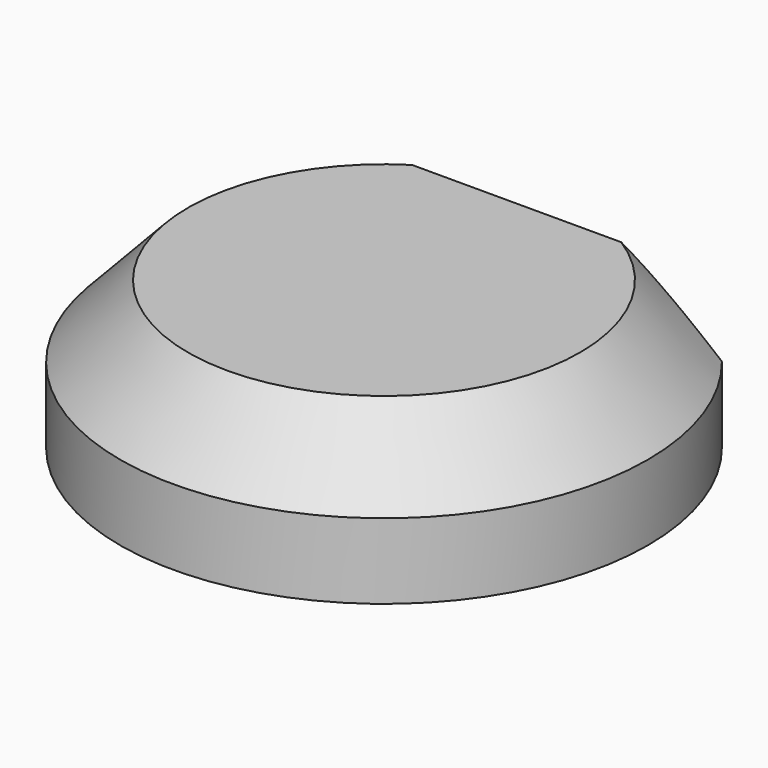
from build123d import *

# Parameters (mm, degrees)
F1_DEPTH = 2
F5_DEPTH = 19.589616
F7_DEPTH = 1.2


with BuildPart() as f1:
    # F0 (on Top) → F1 (new body)
    with BuildSketch(Plane.XY):
        with BuildLine():
            Line((27.229394, 21.99), (-27.229394, 21.99))
            ThreePointArc((-27.229394, 21.99), (0, -35), (27.229394, 21.99))
        make_face()
    extrude(amount=F1_DEPTH)

    # F2 (on Front) → F3 (revolve)
    with BuildSketch(Plane.XZ):
        Polygon((-35, 0), (-33.560254, 0), (-33.560254, 10), (-25.686589, 18.388616), (0, 18.388616), (0, 19.588616), (-26, 19.588616), (-35, 10), align=None)
    revolve(axis=Axis((0, 0, 12.407482), (0, 0, -1)))

    # F4 (on face) → F5 (cut, through all)
    with BuildSketch(Plane(origin=(0, 0, 0), x_dir=(1, 0, 0), z_dir=(0, 0, -1))):
        Polygon((27.229394, -21.99), (-25.352131, -21.99), (-27.229394, -21.99), (-27.229394, -37.239455), (27.229394, -37.239455), align=None)
    extrude(amount=-F5_DEPTH, mode=Mode.SUBTRACT)

    # F6 (on face) → F7 (join)
    with BuildSketch(Plane(origin=(0, 21.99, 0), x_dir=(-1, 0, 0), z_dir=(0, 1, 0))):
        Polygon((13.872271, 19.588616), (-13.872271, 19.588616), (-27.229394, 10), (-27.229394, 0), (27.229394, 0), (27.229394, 10), align=None)
    extrude(amount=-F7_DEPTH)


solid = f1.part
